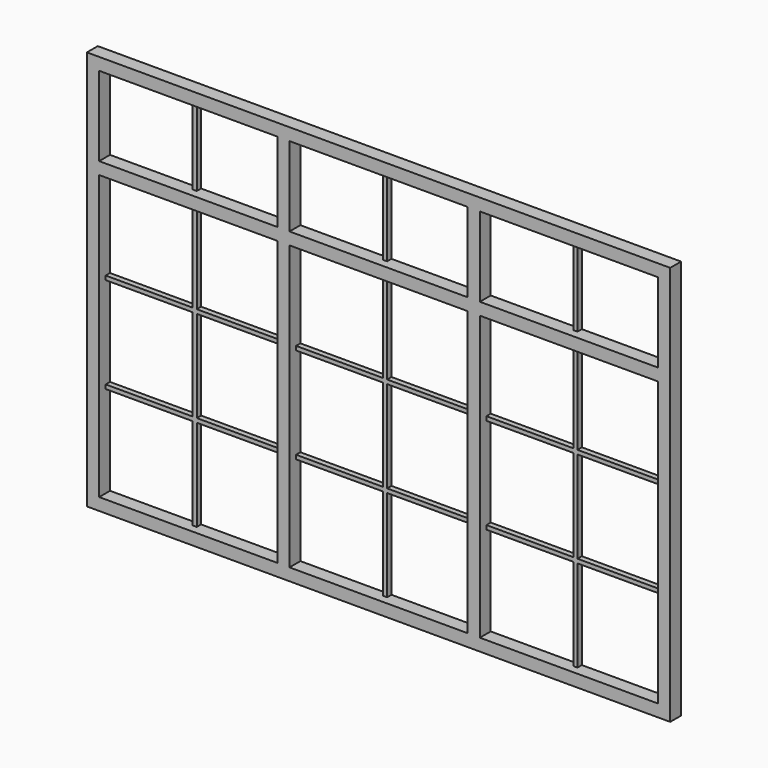
from build123d import *

# Parameters (mm, degrees)
F0_W     = 2145
F0_H     = 1470
F0_W_2   = 655
F0_H_2   = 1042.5
F0_H_3   = 292.5
F1_DEPTH = 50
F2_W     = 15
F2_H     = 292.5
F3_DEPTH = 20


with BuildPart() as f1:
    # F0 (on Front) → F1 (new body)
    with BuildSketch(Plane.XZ):
        with Locations((1072.5, 735)):
            Rectangle(F0_W, F0_H)
        with Locations((372.5, 566.25)):
            Rectangle(F0_W_2, F0_H_2, mode=Mode.SUBTRACT)
        with Locations((1072.5, 566.25)):
            Rectangle(F0_W_2, F0_H_2, mode=Mode.SUBTRACT)
        with Locations((1772.5, 566.25)):
            Rectangle(F0_W_2, F0_H_2, mode=Mode.SUBTRACT)
        with Locations((372.5, 1278.75)):
            Rectangle(F0_W_2, F0_H_3, mode=Mode.SUBTRACT)
        with Locations((1072.5, 1278.75)):
            Rectangle(F0_W_2, F0_H_3, mode=Mode.SUBTRACT)
        with Locations((1772.5, 1278.75)):
            Rectangle(F0_W_2, F0_H_3, mode=Mode.SUBTRACT)
    extrude(amount=F1_DEPTH)

    # F2 (on Front) → F3 (join)
    with BuildSketch(Plane.XZ):
        Polygon((365, 750), (45, 750), (45, 735), (365, 735), (365, 397.5), (45, 397.5), (45, 382.5), (365, 382.5), (365, 45), (380, 45), (380, 382.5), (700, 382.5), (700, 397.5), (380, 397.5), (380, 735), (700, 735), (700, 750), (380, 750), (380, 1087.5), (365, 1087.5), align=None)
        with Locations((372.5, 1278.75)):
            Rectangle(F2_W, F2_H)
        with Locations((1072.5, 1278.75)):
            Rectangle(F2_W, F2_H)
        Polygon((1065, 750), (745, 750), (745, 735), (1065, 735), (1065, 397.5), (745, 397.5), (745, 382.5), (1065, 382.5), (1065, 45), (1080, 45), (1080, 382.5), (1400, 382.5), (1400, 397.5), (1080, 397.5), (1080, 735), (1400, 735), (1400, 750), (1080, 750), (1080, 1087.5), (1065, 1087.5), align=None)
        with Locations((1772.5, 1278.75)):
            Rectangle(F2_W, F2_H)
        Polygon((1780, 1087.5), (1765, 1087.5), (1765, 750), (1445, 750), (1445, 735), (1765, 735), (1765, 397.5), (1445, 397.5), (1445, 382.5), (1765, 382.5), (1765, 45), (1780, 45), (1780, 382.5), (2100, 382.5), (2100, 397.5), (1780, 397.5), (1780, 735), (2100, 735), (2100, 750), (1780, 750), align=None)
    extrude(amount=F3_DEPTH)


solid = f1.part
